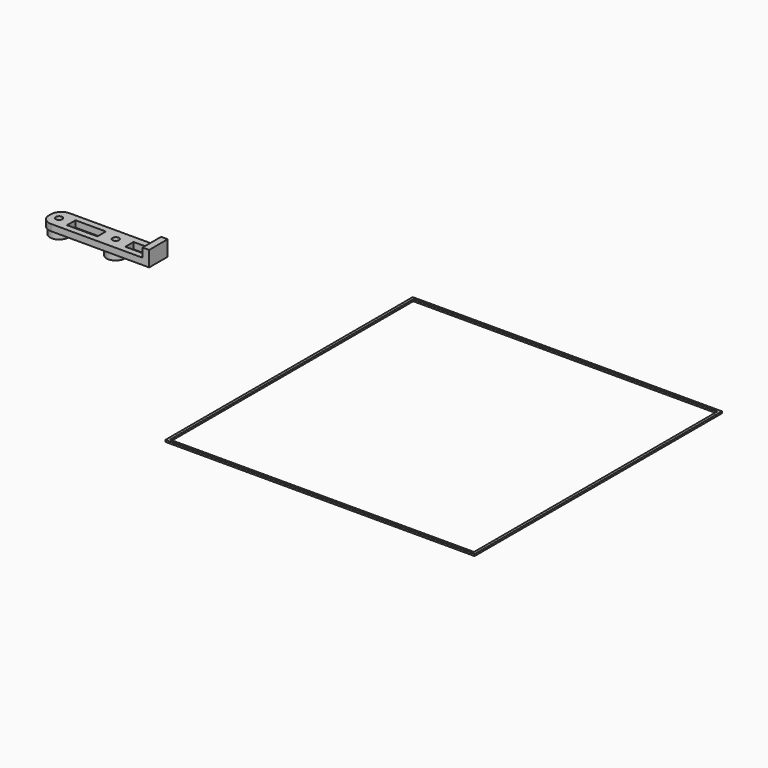
from build123d import *

# Parameters (mm, degrees)
F0_W     = 11.7987894919
F0_H     = 4.111728631
F0_R     = 3.5371973142
F0_W_2   = 6.053224206
F0_H_2   = 4.0023974143
F0_W_3   = 2.5464419901
F0_H_3   = 9
F0_R_2   = 1.25
F1_DEPTH = 2.5
F2_DEPTH = 3
F3_DEPTH = 6
F4_DEPTH = 0.7
F0_W_4   = 120
F0_H_4   = 120
F0_W_5   = 118
F0_H_5   = 118


with BuildPart() as f1:
    # F0 (on Top) → F1 (new body)
    with BuildSketch(Plane.XY):
        with BuildLine():
            Line((28.4387205392, -8.0249160528), (28.4387205392, 0.9750839472))
            Line((28.4387205392, 0.9750839472), (-7.098476775, 0.9750839472))
            ThreePointArc((-7.098476775, 0.9750839472), (-9.9269038998, -0.1964889281), (-11.098476775, -3.0249160528))
            Line((-11.098476775, -3.0249160528), (-11.098476775, -3.524916043))
            Line((-11.098476775, -3.524916043), (-11.098476775, -4.0249160528))
            ThreePointArc((-11.098476775, -4.0249160528), (-9.9269038998, -6.8533431776), (-7.098476775, -8.0249160528))
            Line((-7.098476775, -8.0249160528), (28.4387205392, -8.0249160528))
        make_face()
        with BuildLine():
            ThreePointArc((-4.0240821465, -3.5249160528), (-7.5612794657, -7.0621133671), (-11.098476775, -3.524916043))
            ThreePointArc((-11.098476775, -3.524916043), (-7.5612794559, 0.0122812614), (-4.0240821465, -3.5249160528))
        make_face(mode=Mode.SUBTRACT)
        with Locations((3.0995766865, -3.5848133266)):
            Rectangle(F0_W, F0_H, mode=Mode.SUBTRACT)
        with Locations((14.4387205392, -3.5249160528)):
            Circle(F0_R, mode=Mode.SUBTRACT)
        with Locations((22.8709038347, -3.6549738143)):
            Rectangle(F0_W_2, F0_H_2, mode=Mode.SUBTRACT)
        with Locations((29.7119415343, -3.5249160528)):
            Rectangle(F0_W_3, F0_H_3)
        with BuildLine():
            ThreePointArc((-4.0240821465, -3.5249160528), (-7.5612794559, 0.0122812614), (-11.098476775, -3.524916043))
            ThreePointArc((-11.098476775, -3.524916043), (-7.5612794657, -7.0621133671), (-4.0240821465, -3.5249160528))
        make_face()
        with Locations((-7.5612794608, -3.5249160528)):
            Circle(F0_R_2, mode=Mode.SUBTRACT)
        with Locations((14.4387205392, -3.5249160528)):
            Circle(F0_R)
        with Locations((14.4387205392, -3.5249160528)):
            Circle(F0_R_2, mode=Mode.SUBTRACT)
    extrude(amount=F1_DEPTH)

    # F0 (on Top) → F2 (join)
    with BuildSketch(Plane.XY):
        with BuildLine():
            ThreePointArc((-4.0240821465, -3.5249160528), (-7.5612794559, 0.0122812614), (-11.098476775, -3.524916043))
            ThreePointArc((-11.098476775, -3.524916043), (-7.5612794657, -7.0621133671), (-4.0240821465, -3.5249160528))
        make_face()
        with Locations((-7.5612794608, -3.5249160528)):
            Circle(F0_R_2, mode=Mode.SUBTRACT)
        with Locations((14.4387205392, -3.5249160528)):
            Circle(F0_R)
        with Locations((14.4387205392, -3.5249160528)):
            Circle(F0_R_2, mode=Mode.SUBTRACT)
    extrude(amount=-F2_DEPTH)

    # F0 (on Top) → F3 (join)
    with BuildSketch(Plane.XY):
        with Locations((29.7119415343, -3.5249160528)):
            Rectangle(F0_W_3, F0_H_3)
    extrude(amount=F3_DEPTH)

    # F0 (on Top) → F4 (join)
    with BuildSketch(Plane.XY):
        with BuildLine():
            Line((28.4387205392, -8.0249160528), (28.4387205392, 0.9750839472))
            Line((28.4387205392, 0.9750839472), (-7.098476775, 0.9750839472))
            ThreePointArc((-7.098476775, 0.9750839472), (-9.9269038998, -0.1964889281), (-11.098476775, -3.0249160528))
            Line((-11.098476775, -3.0249160528), (-11.098476775, -3.524916043))
            Line((-11.098476775, -3.524916043), (-11.098476775, -4.0249160528))
            ThreePointArc((-11.098476775, -4.0249160528), (-9.9269038998, -6.8533431776), (-7.098476775, -8.0249160528))
            Line((-7.098476775, -8.0249160528), (28.4387205392, -8.0249160528))
        make_face()
        with BuildLine():
            ThreePointArc((-4.0240821465, -3.5249160528), (-7.5612794657, -7.0621133671), (-11.098476775, -3.524916043))
            ThreePointArc((-11.098476775, -3.524916043), (-7.5612794559, 0.0122812614), (-4.0240821465, -3.5249160528))
        make_face(mode=Mode.SUBTRACT)
        with Locations((3.0995766865, -3.5848133266)):
            Rectangle(F0_W, F0_H, mode=Mode.SUBTRACT)
        with Locations((14.4387205392, -3.5249160528)):
            Circle(F0_R, mode=Mode.SUBTRACT)
        with Locations((22.8709038347, -3.6549738143)):
            Rectangle(F0_W_2, F0_H_2, mode=Mode.SUBTRACT)
        with BuildLine():
            ThreePointArc((-4.0240821465, -3.5249160528), (-7.5612794559, 0.0122812614), (-11.098476775, -3.524916043))
            ThreePointArc((-11.098476775, -3.524916043), (-7.5612794657, -7.0621133671), (-4.0240821465, -3.5249160528))
        make_face()
        with Locations((-7.5612794608, -3.5249160528)):
            Circle(F0_R_2, mode=Mode.SUBTRACT)
        with Locations((29.7119415343, -3.5249160528)):
            Rectangle(F0_W_3, F0_H_3)
    extrude(amount=F4_DEPTH)


with BuildPart() as f4:
    # F0 (on Top) → F4, piece 2 (new body)
    with BuildSketch(Plane.XY):
        with Locations((166.3433039188, -34.3472906947)):
            Rectangle(F0_W_4, F0_H_4)
        with Locations((166.3433039188, -34.3472906947)):
            Rectangle(F0_W_5, F0_H_5, mode=Mode.SUBTRACT)
    extrude(amount=F4_DEPTH)


solid = Compound([f1.part, f4.part])
